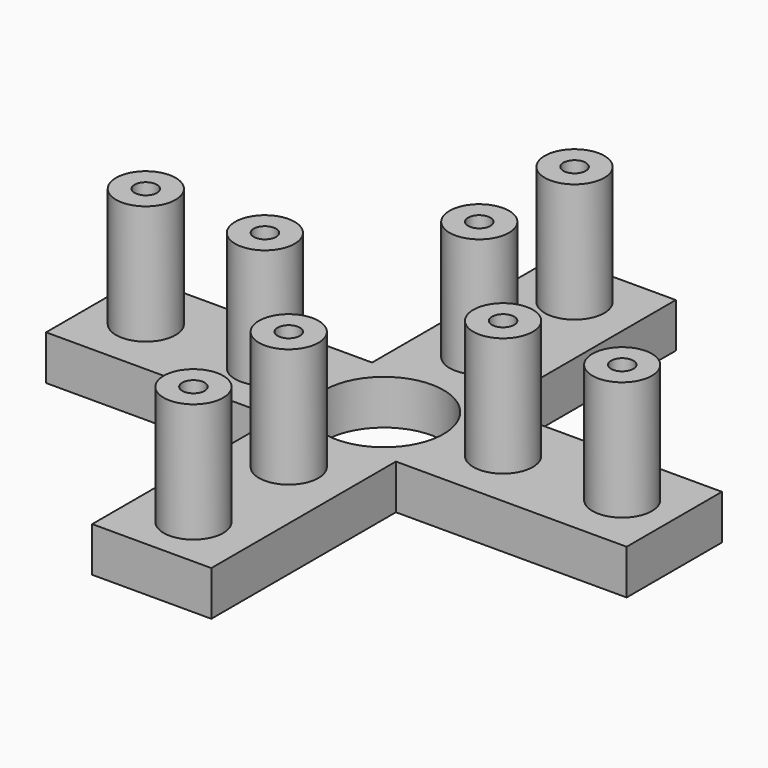
from build123d import *

# Parameters (mm, degrees)
F0_W     = 8
F0_H     = 8
F0_H_2   = 15.5
F0_W_2   = 15.5
F1_DEPTH = 3
F3_D     = 8
F4_R     = 2
F5_DEPTH = 8
F7_D     = 1.5


with BuildPart() as f1:
    # F0 (on Top) → F1 (new body)
    with BuildSketch(Plane.XY):
        Rectangle(F0_W, F0_H)
        with Locations((0, 11.75)):
            Rectangle(F0_W, F0_H_2)
        with Locations((-11.75, 0)):
            Rectangle(F0_W_2, F0_H)
        with Locations((11.75, 0)):
            Rectangle(F0_W_2, F0_H)
        with Locations((0, -11.75)):
            Rectangle(F0_W, F0_H_2)
    extrude(amount=F1_DEPTH)

    # F3 (through all)
    with Locations(Plane(origin=(0, 0, 0), x_dir=(1, 0, 0), z_dir=(0, 0, -1))):
        with Locations((0, 0)):
            Hole(F3_D / 2)

    # F4 (on face) → F5 (join)
    with BuildSketch(Plane.XY.offset(3)):
        with Locations((-16, 0)):
            Circle(F4_R)
        with Locations((-8, 0)):
            Circle(F4_R)
        with Locations((0, -8)):
            Circle(F4_R)
        with Locations((0, -16)):
            Circle(F4_R)
        with Locations((8, 0)):
            Circle(F4_R)
        with Locations((16, 0)):
            Circle(F4_R)
        with Locations((0, 8)):
            Circle(F4_R)
        with Locations((0, 16)):
            Circle(F4_R)
    extrude(amount=F5_DEPTH)

    # F7 (through all)
    with Locations(Plane(origin=(0, 0, 0), x_dir=(1, 0, 0), z_dir=(0, 0, -1))):
        with Locations((-16, 0), (-8, 0), (0, -16), (0, -8), (8, 0), (16, 0), (0, 8), (0, 16)):
            Hole(F7_D / 2)


solid = f1.part
